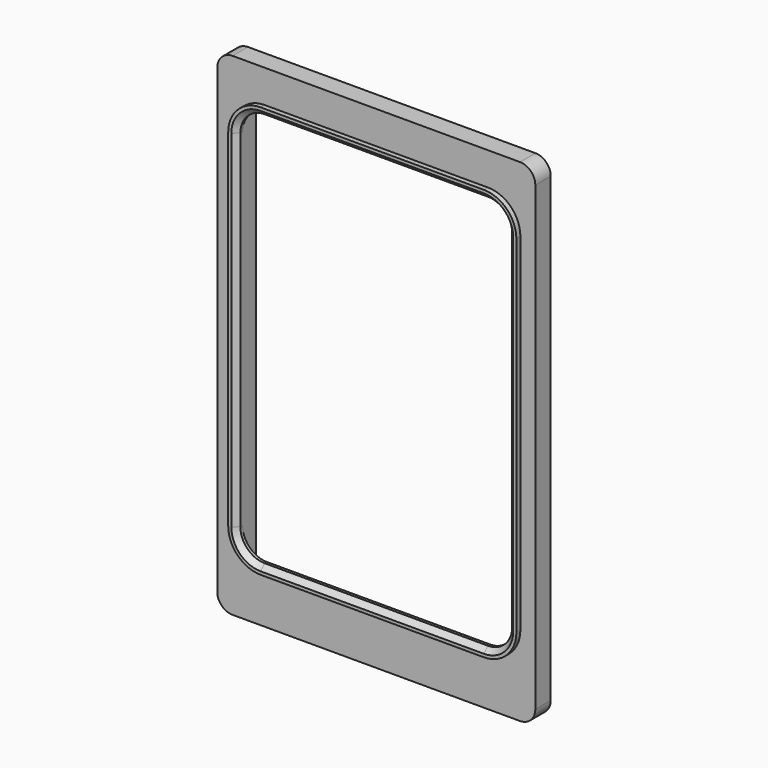
from build123d import *

# Parameters (mm, degrees)
F1_DEPTH  = 9.6
F3_DEPTH  = 10
F5_DEPTH  = 2.5
F6_DEPTH  = 68.834
F7_SIZE   = 2.5
F9_DEPTH  = 8.2
F11_DEPTH = 2.5


with BuildPart() as f1:
    # F0 (on Front) → F1 (new body)
    with BuildSketch(Plane.XZ):
        with BuildLine():
            Line((71.63, 122.625), (-71.63, 122.625))
            ThreePointArc((-71.63, 122.625), (-77.018154, 120.393154), (-79.25, 115.005))
            Line((-79.25, 115.005), (-79.25, -115.005))
            ThreePointArc((-79.25, -115.005), (-77.018154, -120.393154), (-71.63, -122.625))
            Line((-71.63, -122.625), (71.63, -122.625))
            ThreePointArc((71.63, -122.625), (77.018154, -120.393154), (79.25, -115.005))
            Line((79.25, -115.005), (79.25, 115.005))
            ThreePointArc((79.25, 115.005), (77.018154, 120.393154), (71.63, 122.625))
        make_face()
    extrude(amount=-F1_DEPTH)

    # F2 (on face) → F3 (cut)
    with BuildSketch(Plane.XZ):
        with BuildLine():
            Line((55.6088, 102.205), (-55.6088, 102.205))
            ThreePointArc((-55.6088, 102.205), (-64.193925, 98.648925), (-67.75, 90.0638))
            Line((-67.75, 90.0638), (-67.75, -82.6538))
            ThreePointArc((-67.75, -82.6538), (-64.193925, -91.238925), (-55.6088, -94.795))
            Line((-55.6088, -94.795), (55.6088, -94.795))
            ThreePointArc((55.6088, -94.795), (64.193925, -91.238925), (67.75, -82.6538))
            Line((67.75, -82.6538), (67.75, 90.0638))
            ThreePointArc((67.75, 90.0638), (64.193925, 98.648925), (55.6088, 102.205))
        make_face()
    extrude(amount=-F3_DEPTH, mode=Mode.SUBTRACT)

    # F4 (on face) → F5 (join)
    with BuildSketch(Plane.XZ):
        with BuildLine():
            Line((55.6088, 106.255), (-55.6088, 106.255))
            ThreePointArc((-55.6088, 106.255), (-67.057707, 101.512707), (-71.8, 90.0638))
            Line((-71.8, 90.0638), (-71.8, -82.6538))
            ThreePointArc((-71.8, -82.6538), (-67.057707, -94.102707), (-55.6088, -98.845))
            Line((-55.6088, -98.845), (55.6088, -98.845))
            ThreePointArc((55.6088, -98.845), (67.057707, -94.102707), (71.8, -82.6538))
            Line((71.8, -82.6538), (71.8, 90.0638))
            ThreePointArc((71.8, 90.0638), (67.057707, 101.512707), (55.6088, 106.255))
        make_face()
    extrude(amount=F5_DEPTH)

    # F2 (on face) → F6 (cut)
    with BuildSketch(Plane.XZ):
        with BuildLine():
            Line((55.6088, 102.205), (-55.6088, 102.205))
            ThreePointArc((-55.6088, 102.205), (-64.193925, 98.648925), (-67.75, 90.0638))
            Line((-67.75, 90.0638), (-67.75, -82.6538))
            ThreePointArc((-67.75, -82.6538), (-64.193925, -91.238925), (-55.6088, -94.795))
            Line((-55.6088, -94.795), (55.6088, -94.795))
            ThreePointArc((55.6088, -94.795), (64.193925, -91.238925), (67.75, -82.6538))
            Line((67.75, -82.6538), (67.75, 90.0638))
            ThreePointArc((67.75, 90.0638), (64.193925, 98.648925), (55.6088, 102.205))
        make_face()
    extrude(amount=F6_DEPTH, mode=Mode.SUBTRACT)

    # F7
    f7_edges = [f1.edges().sort_by_distance(p)[0] for p in [
        (67.75, -2.5, 3.705),
    ]]
    chamfer(f7_edges, length=F7_SIZE)

    # F8 (on face) → F9 (cut)
    with BuildSketch(Plane(origin=(0, 9.6, 0), x_dir=(-1, 0, 0), z_dir=(0, 1, 0))):
        with BuildLine():
            Line((65.75, 107.625), (-65.75, 107.625))
            ThreePointArc((-65.75, 107.625), (-67.164214, 107.039214), (-67.75, 105.625))
            Line((-67.75, 105.625), (-67.75, -109.375))
            ThreePointArc((-67.75, -109.375), (-67.164214, -110.789214), (-65.75, -111.375))
            Line((-65.75, -111.375), (65.75, -111.375))
            ThreePointArc((65.75, -111.375), (67.164214, -110.789214), (67.75, -109.375))
            Line((67.75, -109.375), (67.75, 105.625))
            ThreePointArc((67.75, 105.625), (67.164214, 107.039214), (65.75, 107.625))
        make_face()
    extrude(amount=-F9_DEPTH, mode=Mode.SUBTRACT)

    # F10 (on face) → F11 (join)
    with BuildSketch(Plane(origin=(0, 9.6, 0), x_dir=(-1, 0, 0), z_dir=(0, 1, 0))):
        with BuildLine():
            Line((73.05, 94.875), (73, 94.875))
            ThreePointArc((73, 94.875), (71.585786, 94.289214), (71, 92.875))
            Line((71, 92.875), (71, -76.125))
            ThreePointArc((71, -76.125), (71.585786, -77.539214), (73, -78.125))
            Line((73, -78.125), (73.05, -78.125))
            ThreePointArc((73.05, -78.125), (74.464214, -77.539214), (75.05, -76.125))
            Line((75.05, -76.125), (75.05, 92.875))
            ThreePointArc((75.05, 92.875), (74.464214, 94.289214), (73.05, 94.875))
        make_face()
    extrude(amount=F11_DEPTH)


solid = f1.part
